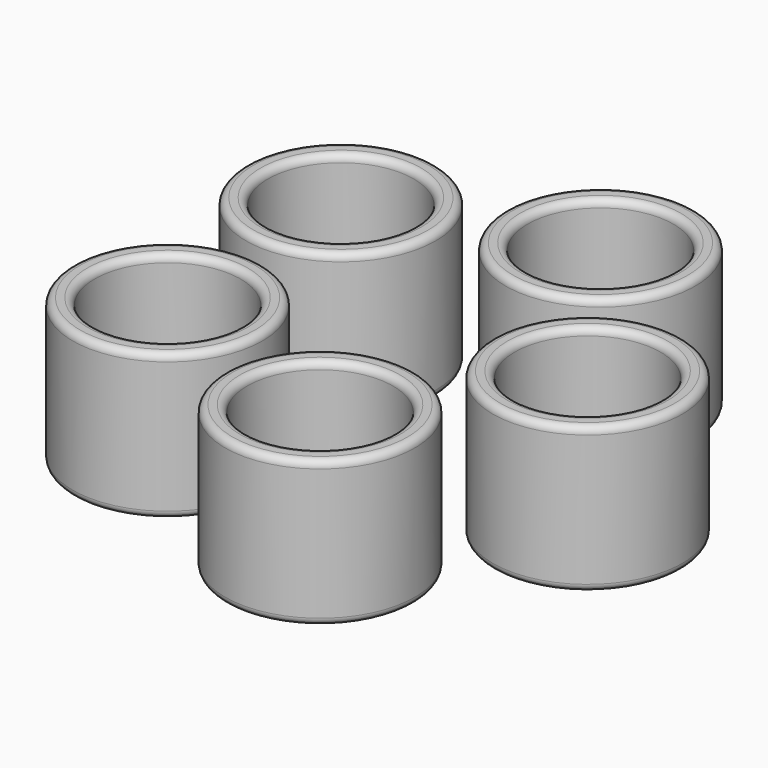
from build123d import *

# Parameters (mm, degrees)
F0_W     = 3
F0_H     = 20
F2_COUNT = 5
F3_R     = 1
F4_R     = 1
F5_R     = 1
F5_2_R   = 1
F5_3_R   = 1
F5_4_R   = 1
F5_5_R   = 1
F6_R     = 1
F6_2_R   = 1
F6_3_R   = 1
F6_4_R   = 1
F7_R     = 1


with BuildPart() as f1:
    # F0 (on Front) → F1 (revolve)
    with BuildSketch(Plane.XZ):
        with Locations((-11.5, 14.0683282912)):
            Rectangle(F0_W, F0_H)
    revolve(axis=Axis((0, 0, 0.5), (0, 0, 1)))


with BuildPart() as f2_1:
    # F2: instance of F1
    add(f1.part.rotate(Axis((-25.2519734204, 0, -9.0471665263), (0, 0, -1)), 1 * 360 / F2_COUNT))

    # F5#5
    f5_5_edges = [f2_1.edges().sort_by_distance(p)[0] for p in [
        (-13.431464, -36.379789, 4.068328),
        (-14.358515, -33.526619, 4.068328),
    ]]
    fillet(f5_5_edges, radius=F5_5_R)

    # F6#2
    f6_2_edges = [f2_1.edges().sort_by_distance(p)[0] for p in [
        (-14.358515, -33.526619, 24.068328),
        (-13.431464, -36.379789, 24.068328),
    ]]
    fillet(f6_2_edges, radius=F6_2_R)


with BuildPart() as f2_2:
    # F2: instance of F1
    add(f1.part.rotate(Axis((-25.2519734204, 0, -9.0471665263), (0, 0, -1)), 2 * 360 / F2_COUNT))

    # F5#4
    f5_4_edges = [f2_2.edges().sort_by_distance(p)[0] for p in [
        (-56.19847, -22.483946, 4.068328),
        (-53.771419, -20.72059, 4.068328),
    ]]
    fillet(f5_4_edges, radius=F5_4_R)

    # F6#3
    f6_3_edges = [f2_2.edges().sort_by_distance(p)[0] for p in [
        (-56.19847, -22.483946, 24.068328),
        (-53.771419, -20.72059, 24.068328),
    ]]
    fillet(f6_3_edges, radius=F6_3_R)


with BuildPart() as f2_3:
    # F2: instance of F1
    add(f1.part.rotate(Axis((-25.2519734204, 0, -9.0471665263), (0, 0, -1)), 3 * 360 / F2_COUNT))

    # F5#3
    f5_3_edges = [f2_3.edges().sort_by_distance(p)[0] for p in [
        (-56.19847, 22.483946, 4.068328),
        (-53.771419, 20.72059, 4.068328),
    ]]
    fillet(f5_3_edges, radius=F5_3_R)

    # F6#4
    f6_4_edges = [f2_3.edges().sort_by_distance(p)[0] for p in [
        (-56.19847, 22.483946, 24.068328),
        (-53.771419, 20.72059, 24.068328),
    ]]
    fillet(f6_4_edges, radius=F6_4_R)


with BuildPart() as f2_4:
    # F2: instance of F1
    add(f1.part.rotate(Axis((-25.2519734204, 0, -9.0471665263), (0, 0, -1)), 4 * 360 / F2_COUNT))

    # F3
    f3_edges = [f2_4.edges().sort_by_distance(p)[0] for p in [
        (-14.358515, 33.526619, 24.068328),
    ]]
    fillet(f3_edges, radius=F3_R)

    # F4
    f4_edges = [f2_4.edges().sort_by_distance(p)[0] for p in [
        (-13.431464, 36.379789, 24.068328),
    ]]
    fillet(f4_edges, radius=F4_R)

    # F5#2
    f5_2_edges = [f2_4.edges().sort_by_distance(p)[0] for p in [
        (-13.431464, 36.379789, 4.068328),
        (-14.358515, 33.526619, 4.068328),
    ]]
    fillet(f5_2_edges, radius=F5_2_R)


with BuildPart() as f1_1:
    add(f1.part)

    # F5
    f5_edges = [f1_1.edges().sort_by_distance(p)[0] for p in [
        (13, 0, 24.068328),
        (13, 0, 4.068328),
        (-13, 0, 14.068328),
    ]]
    fillet(f5_edges, radius=F5_R)

    # F6
    f6_edges = [f1_1.edges().sort_by_distance(p)[0] for p in [
        (10, 0, 24.068328),
    ]]
    fillet(f6_edges, radius=F6_R)

    # F7
    f7_edges = [f1_1.edges().sort_by_distance(p)[0] for p in [
        (10, 0, 4.068328),
    ]]
    fillet(f7_edges, radius=F7_R)


solid = Compound([f2_1.part, f2_2.part, f2_3.part, f2_4.part, f1_1.part])
